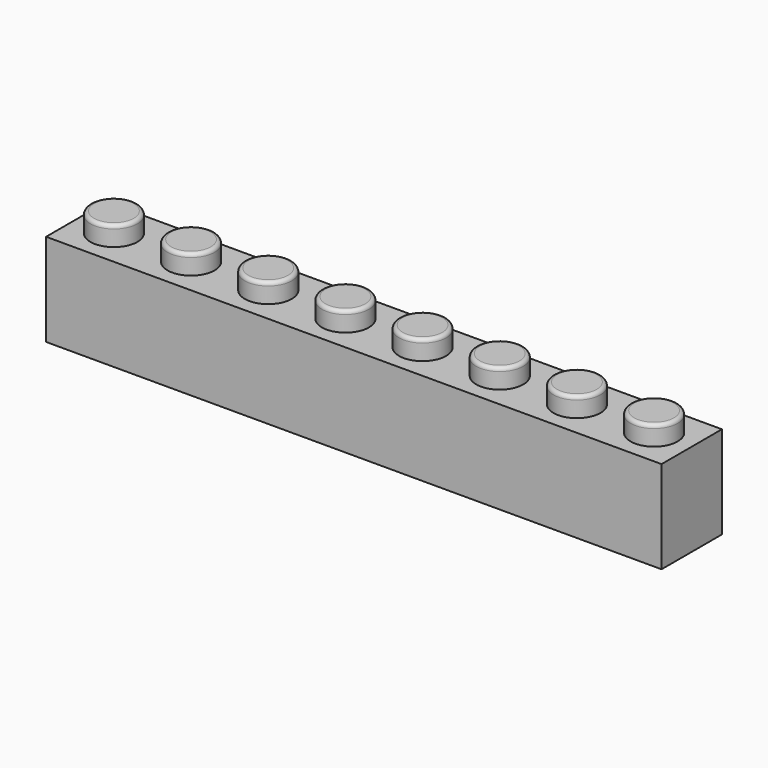
from build123d import *

# Parameters (mm, degrees)
F0_W      = 63.8
F0_H      = 7.8232
F1_DEPTH  = 9.6
F2_R      = 2.4384
F3_DEPTH  = 2.032
F4_W      = 60.8536
F4_H      = 4.8768
F4_R      = 1.5367
F5_DEPTH  = 8
F6_R      = 0.381
F7_W      = 0.8
F7_H      = 4.8768
F8_DEPTH  = 5.5616
F9_R      = 1.3
F10_DEPTH = 1.7


with BuildPart() as f1:
    # F0 (on Top) → F1 (new body)
    with BuildSketch(Plane.XY):
        with Locations((-2.336152, -15.277396)):
            Rectangle(F0_W, F0_H)
    extrude(amount=F1_DEPTH)

    # F2 (on face) → F3 (join)
    with BuildSketch(Plane.XY.offset(9.6)):
        with Locations((-30.336152, -15.277396)):
            Circle(F2_R)
        with Locations((-22.336152, -15.277396)):
            Circle(F2_R)
        with Locations((-14.336152, -15.277396)):
            Circle(F2_R)
        with Locations((-6.336152, -15.277396)):
            Circle(F2_R)
        with Locations((1.663848, -15.277396)):
            Circle(F2_R)
        with Locations((9.663848, -15.277396)):
            Circle(F2_R)
        with Locations((17.663848, -15.277396)):
            Circle(F2_R)
        with Locations((25.663848, -15.277396)):
            Circle(F2_R)
    extrude(amount=F3_DEPTH)

    # F4 (on face) → F5 (cut)
    with BuildSketch(Plane(origin=(0, 0, 0), x_dir=(1, 0, 0), z_dir=(0, 0, -1))):
        with Locations((-2.336152, 15.277396)):
            Rectangle(F4_W, F4_H)
        with Locations((-26.336152, 15.277396)):
            Circle(F4_R, mode=Mode.SUBTRACT)
        with Locations((-18.336152, 15.277396)):
            Circle(F4_R, mode=Mode.SUBTRACT)
        with Locations((-10.336152, 15.277396)):
            Circle(F4_R, mode=Mode.SUBTRACT)
        with Locations((-2.336152, 15.277396)):
            Circle(F4_R, mode=Mode.SUBTRACT)
        with Locations((5.663848, 15.277396)):
            Circle(F4_R, mode=Mode.SUBTRACT)
        with Locations((13.663848, 15.277396)):
            Circle(F4_R, mode=Mode.SUBTRACT)
        with Locations((21.663848, 15.277396)):
            Circle(F4_R, mode=Mode.SUBTRACT)
    extrude(amount=-F5_DEPTH, mode=Mode.SUBTRACT)

    # F6
    f6_edges = [f1.edges().sort_by_distance(p)[0] for p in [
        (-24.774552, -15.277396, 11.632),
        (-16.774552, -15.277396, 11.632),
        (-8.774552, -15.277396, 11.632),
        (-0.774552, -15.277396, 11.632),
        (7.225448, -15.277396, 11.632),
        (15.225448, -15.277396, 11.632),
        (23.225448, -15.277396, 11.632),
        (-32.774552, -15.277396, 11.632),
    ]]
    fillet(f6_edges, radius=F6_R)

    # F7 (on face) → F8 (join)
    with BuildSketch(Plane(origin=(0, 0, 8), x_dir=(1, 0, 0), z_dir=(0, 0, -1))):
        with Locations((-26.336152, 15.277396)):
            Rectangle(F7_W, F7_H)
        with Locations((-18.336152, 15.277396)):
            Rectangle(F7_W, F7_H)
        with Locations((-10.336152, 15.277396)):
            Rectangle(F7_W, F7_H)
        with Locations((-2.336152, 15.277396)):
            Rectangle(F7_W, F7_H)
        with Locations((5.663848, 15.277396)):
            Rectangle(F7_W, F7_H)
        with Locations((13.663848, 15.277396)):
            Rectangle(F7_W, F7_H)
        with Locations((21.663848, 15.277396)):
            Rectangle(F7_W, F7_H)
    extrude(amount=F8_DEPTH)

    # F9 (on face) → F10 (cut)
    with BuildSketch(Plane(origin=(0, 0, 8), x_dir=(1, 0, 0), z_dir=(0, 0, -1))):
        with Locations((-30.336152, 15.277396)):
            Circle(F9_R)
        with Locations((-22.336152, 15.277396)):
            Circle(F9_R)
        with Locations((-14.336152, 15.277396)):
            Circle(F9_R)
        with Locations((-6.336152, 15.277396)):
            Circle(F9_R)
        with Locations((1.663848, 15.277396)):
            Circle(F9_R)
        with Locations((9.663848, 15.277396)):
            Circle(F9_R)
        with Locations((17.663848, 15.277396)):
            Circle(F9_R)
        with Locations((25.663848, 15.277396)):
            Circle(F9_R)
    extrude(amount=-F10_DEPTH, mode=Mode.SUBTRACT)


solid = f1.part
